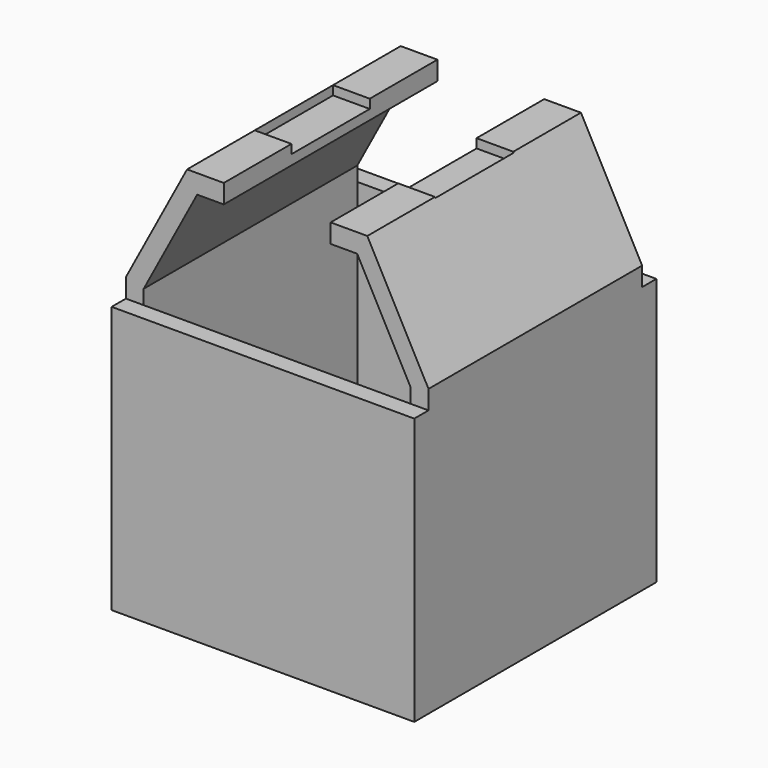
from build123d import *

# Parameters (mm, degrees)
F0_W      = 34
F0_H      = 34
F0_W_2    = 30
F0_H_2    = 30
F1_DEPTH  = 30
F2_W      = 32.414368
F2_H      = 32.092232
F3_DEPTH  = 1
F4_R      = 0.5
F5_DEPTH  = 2
F7_DEPTH  = 30
F10_DEPTH = 2


with BuildPart() as f1:
    # F0 (on Top) → F1 (new body)
    with BuildSketch(Plane.XY):
        with Locations((15, 15)):
            Rectangle(F0_W, F0_H)
        with Locations((15, 15)):
            Rectangle(F0_W_2, F0_H_2, mode=Mode.SUBTRACT)
    extrude(amount=F1_DEPTH)

    # F2 (on Top) → F3 (join)
    with BuildSketch(Plane.XY):
        with Locations((15.036923, 14.937822)):
            Rectangle(F2_W, F2_H)
    extrude(amount=F3_DEPTH)

    # F4 (on Top) → F5 (cut)
    with BuildSketch(Plane.XY):
        with Locations((15, 15)):
            Circle(F4_R)
    extrude(amount=F5_DEPTH, mode=Mode.SUBTRACT)

    # F6 (on Front) → F7 (join)
    with BuildSketch(Plane.XZ):
        Polygon((-2, 32.127354), (-2, 30), (-0.865411, 30), (0, 30), (0, 31.622646), (6.008863, 42.889264), (7.5, 42.889264), (9, 42.889264), (9, 45.016619), (7.5, 45.016619), (6.008863, 45.016619), (4.874274, 45.016619), align=None)
        Polygon((32, 32.127354), (25.125726, 45.016619), (23.991137, 45.016619), (22.5, 45.016619), (21, 45.016619), (21, 42.889264), (22.5, 42.889264), (23.991137, 42.889264), (29.999532, 31.623524), (29.999532, 30), (30.865411, 30), (32, 30), align=None)
    extrude(amount=-F7_DEPTH)

    # F9 (on offset) → F10 (cut)
    with BuildSketch(Plane.XY.offset(46)):
        Polygon((25.174274, 20.5), (4.874274, 20.5), (4.874274, 15), (4.874274, 9.5), (25.174274, 9.5), align=None)
    extrude(amount=-F10_DEPTH, mode=Mode.SUBTRACT)


solid = f1.part
